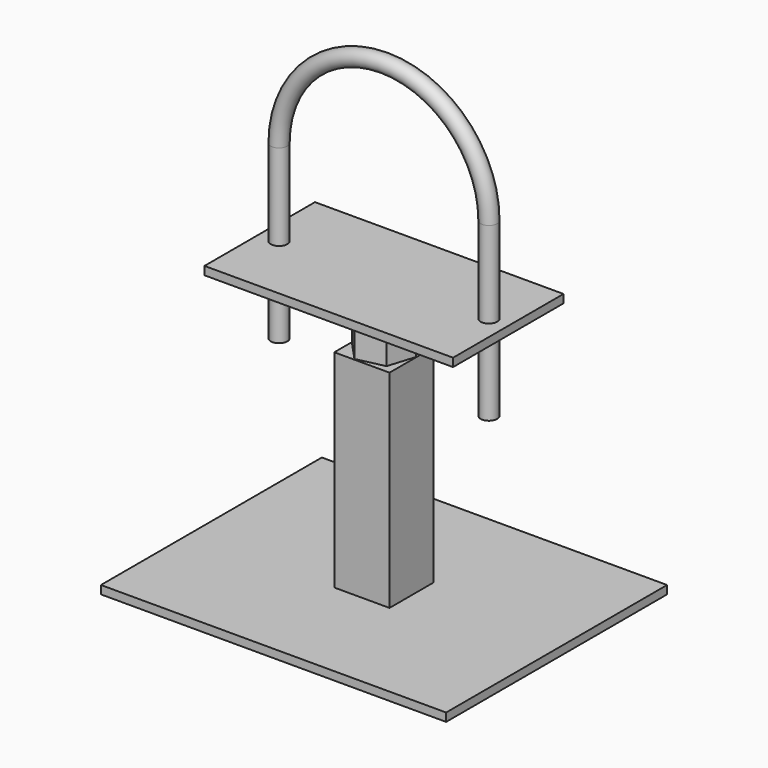
from build123d import *

# Parameters (mm, degrees)
F0_W      = 250
F0_H      = 200
F1_DEPTH  = 6
F2_W      = 40
F2_H      = 40
F2_W_2    = 30
F2_H_2    = 30
F3_DEPTH  = 144
F4_W      = 40
F4_H      = 40
F4_R      = 11
F5_DEPTH  = 6
F7_W      = 180
F7_H      = 100
F8_DEPTH  = 6
F9_R      = 10
F10_DEPTH = 160
F13_R     = 6
F15_R     = 10
F16_DEPTH = 25


with BuildPart() as f1:
    # F0 (on Top) → F1 (new body)
    with BuildSketch(Plane.XY):
        Rectangle(F0_W, F0_H)
    extrude(amount=F1_DEPTH)


with BuildPart() as f3:
    # F2 (on face) → F3 (new body)
    with BuildSketch(Plane.XY.offset(6)):
        Rectangle(F2_W, F2_H)
        Rectangle(F2_W_2, F2_H_2, mode=Mode.SUBTRACT)
    extrude(amount=F3_DEPTH)

    # F4 (on face) → F5 (join)
    with BuildSketch(Plane.XY.offset(150)):
        Rectangle(F4_W, F4_H)
        Circle(F4_R, mode=Mode.SUBTRACT)
    extrude(amount=F5_DEPTH)


with BuildPart() as f8:
    # F7 (on offset) → F8 (new body)
    with BuildSketch(Plane.XY.offset(200.5)):
        Rectangle(F7_W, F7_H)
    extrude(amount=-F8_DEPTH)


with BuildPart() as f10:
    # F9 (on face) → F10 (new body)
    with BuildSketch(Plane(origin=(0, 0, 194.5), x_dir=(1, 0, 0), z_dir=(0, 0, -1))):
        Circle(F9_R)
    extrude(amount=F10_DEPTH)


with BuildPart() as f14:
    # F14: sweep along a path in F11
    with BuildLine(Plane.XZ) as f14_path:
        Line((76, 138.53), (76, 263))
        ThreePointArc((76, 263), (0, 339), (-76, 263))
        Line((-76, 263), (-76, 138.53))
    # F13 (on offset) → F14 (sweep)
    with BuildSketch(Plane.XY.offset(138.53)):
        with Locations((76, 0)):
            Circle(F13_R)
    sweep(path=f14_path.line)


with BuildPart() as f16:
    # F15 (on face) → F16 (new body)
    with BuildSketch(Plane.XY.offset(156)):
        Polygon((-19.708174, -4.46332), (-5.988738, -19.299439), (13.719436, -14.836119), (19.708174, 4.46332), (5.988738, 19.299439), (-13.719436, 14.836119), align=None)
        Circle(F15_R, mode=Mode.SUBTRACT)
    extrude(amount=F16_DEPTH)


solid = Compound([f1.part, f3.part, f8.part, f10.part, f14.part, f16.part])
